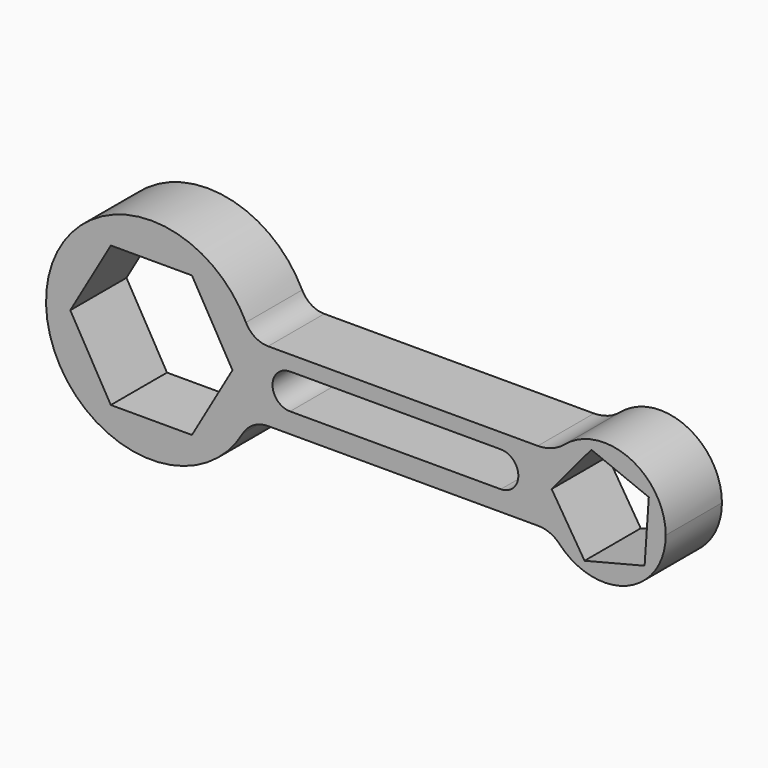
from build123d import *

# Parameters (mm, degrees)
F1_DEPTH = 508


with BuildPart() as f1:
    # F0 (on Front) → F1 (new body)
    with BuildSketch(Plane.XZ):
        with BuildLine():
            ThreePointArc((661.071386, -378.98367), (736.335656, -196.096409), (762, 0))
            ThreePointArc((762, 0), (742.244723, 172.385532), (684.003224, 335.832681))
            ThreePointArc((684.003224, 335.832681), (-761.608187, 24.432954), (661.071386, -378.98367))
        make_face()
        Polygon((-586.587873, 0), (-293.293937, 508), (293.293937, 508), (586.587873, 0), (293.293937, -508), (-293.293937, -508), align=None, mode=Mode.SUBTRACT)
        with BuildLine():
            ThreePointArc((684.003224, 335.832681), (742.244723, 172.385532), (762, 0))
            ThreePointArc((762, 0), (736.335656, -196.096409), (661.071386, -378.98367))
            ThreePointArc((661.071386, -378.98367), (739.036508, -300.660714), (845.761669, -271.976476))
            Line((845.761669, -271.976476), (2798.789212, -271.976476))
            ThreePointArc((2798.789212, -271.976476), (2882.108521, -289.1441), (2951.854781, -337.850298))
            ThreePointArc((2951.854781, -337.850298), (2830.593289, -8.320924), (2985.89789, 306.59881))
            ThreePointArc((2985.89789, 306.59881), (2896.610481, 254.230653), (2794.712661, 236.023524))
            Line((2794.712661, 236.023524), (844.198016, 236.023524))
            ThreePointArc((844.198016, 236.023524), (749.826093, 263.017331), (684.003224, 335.832681))
        make_face()
        with BuildLine():
            Line((2527.3, -127), (1003.3, -127))
            ThreePointArc((1003.3, -127), (876.3, 0), (1003.3, 127))
            Line((1003.3, 127), (2527.3, 127))
            ThreePointArc((2527.3, 127), (2654.3, 0), (2527.3, -127))
        make_face(mode=Mode.SUBTRACT)
        with BuildLine():
            ThreePointArc((3720.337772, -31.804987), (3461.454806, 372.521326), (2985.89789, 306.59881))
            ThreePointArc((2985.89789, 306.59881), (2830.593289, -8.320924), (2951.854781, -337.850298))
            ThreePointArc((2951.854781, -337.850298), (3439.866562, -445.395921), (3720.337772, -31.804987))
        make_face()
        Polygon((3133.102127, -385.33265), (2895.033882, -5.950153), (3182.280944, 337.701842), (3597.877637, 170.707958), (3567.483456, -276.151933), align=None, mode=Mode.SUBTRACT)
    extrude(amount=F1_DEPTH)


solid = f1.part
